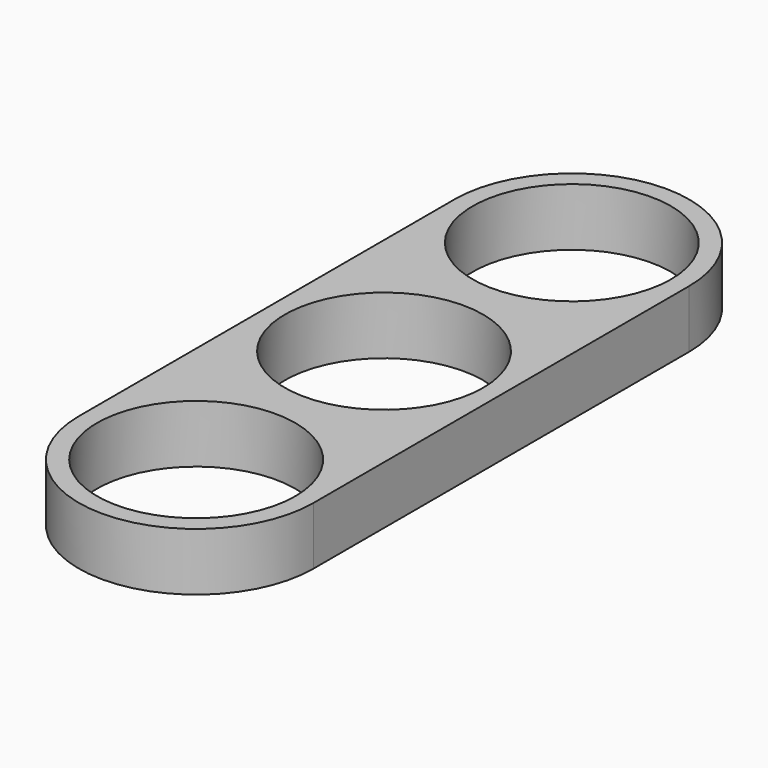
from build123d import *

# Parameters (mm, degrees)
F0_R     = 12
F1_DEPTH = 7


with BuildPart() as f1:
    # F0 (on Top) → F1 (new body)
    with BuildSketch(Plane.XY):
        with BuildLine():
            Line((14.2, -28.40909), (14.2, 28.40909))
            ThreePointArc((14.2, 28.40909), (0, 42.60909), (-14.2, 28.40909))
            Line((-14.2, 28.40909), (-14.2, -28.40909))
            ThreePointArc((-14.2, -28.40909), (0, -42.60909), (14.2, -28.40909))
        make_face()
        with Locations((0, -28.40909)):
            Circle(F0_R, mode=Mode.SUBTRACT)
        Circle(F0_R, mode=Mode.SUBTRACT)
        with Locations((0, 28.40909)):
            Circle(F0_R, mode=Mode.SUBTRACT)
    extrude(amount=F1_DEPTH)


solid = f1.part
